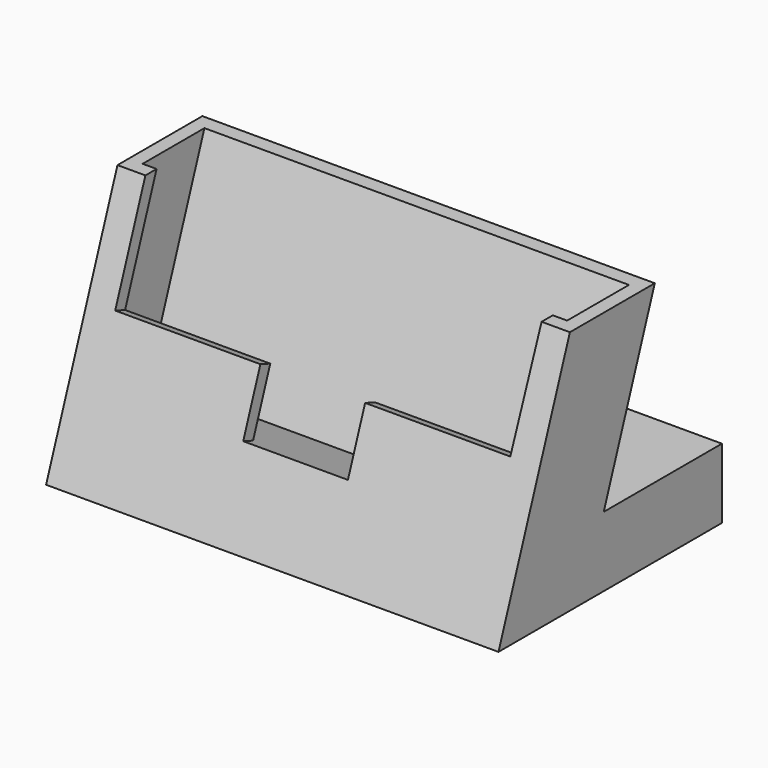
from build123d import *

# Parameters (mm, degrees)
SKETCH_W        = 64.8
SKETCH_H        = 40
PAD_DEPTH       = 40
POCKET_DEPTH    = 64.801
POCKET001_DEPTH = 64.801
POCKET002_DEPTH = 64.801
SKETCH004_W     = 60.8
SKETCH004_H     = 10.4
POCKET003_DEPTH = 30
POCKET004_DEPTH = 15.5651335663
POCKET005_DEPTH = 64.801


with BuildPart() as part:
    # Sketch → Pad (new body)
    with BuildSketch(Plane.XY):
        with Locations((32.4, 20)):
            Rectangle(SKETCH_W, SKETCH_H)
    extrude(amount=PAD_DEPTH)

    # Sketch001 → Pocket (cut, through all)
    with BuildSketch(Plane.YZ.offset(64.8)):
        Polygon((0, 0), (0, 40), (14.5588093668, 40), align=None)
    extrude(amount=-POCKET_DEPTH, mode=Mode.SUBTRACT)

    # Sketch002 → Pocket001 (cut, through all)
    with BuildSketch(Plane.YZ.offset(64.8)):
        Polygon((29.7588093668, 40), (18.8397023417, 10), (40, 10), (40, 40), align=None)
    extrude(amount=-POCKET001_DEPTH, mode=Mode.SUBTRACT)

    # Sketch003 → Pocket002 (cut, through all)
    with BuildSketch(Plane.YZ.offset(64.8)):
        Polygon((14.5588093668, 40), (27.9807471354, 35.1148141674), (29.7588093668, 40), align=None)
    extrude(amount=-POCKET002_DEPTH, mode=Mode.SUBTRACT)

    # Sketch004 → Pocket003 (cut)
    with BuildSketch(Plane(origin=(0, 14.5588093668, 40), x_dir=(1, 0, 0), z_dir=(0, 0.3420201432, 0.9396926208))):
        with Locations((32.4, 7.0833278364)):
            Rectangle(SKETCH004_W, SKETCH004_H)
    extrude(amount=-POCKET003_DEPTH, mode=Mode.SUBTRACT)

    # Sketch005 → Pocket004 (cut, through all)
    with BuildSketch(Plane(origin=(0, 1.7697492704, -0.6441360564), x_dir=(-1, 0, 0), z_dir=(0, 0.9396926208, -0.3420201432))):
        Polygon((-39.795, 21.5671108977), (-39.795, 12.5671108977), (-24.795, 12.5671108977), (-24.795, 21.5671108977), (-4, 21.5671108977), (-4, 42.5671108977), (-60.8, 42.5671108977), (-60.59, 21.5671108977), align=None)
    extrude(amount=-POCKET004_DEPTH, mode=Mode.SUBTRACT)

    # Sketch006 → Pocket005 (cut, through all)
    with BuildSketch(Plane.YZ.offset(64.8)):
        Polygon((27.9807471354, 35.1148141674), (12.7807471354, 35.1148141674), (14.5588093668, 40), align=None)
    extrude(amount=-POCKET005_DEPTH, mode=Mode.SUBTRACT)


solid = part.part
